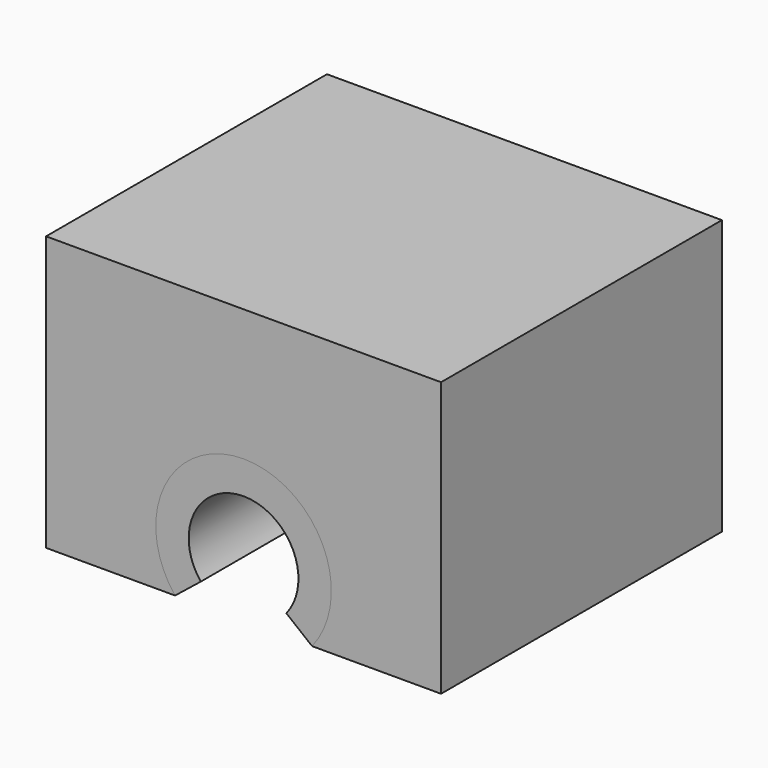
from build123d import *

# Parameters (mm, degrees)
F1_DEPTH = 32
F2_DEPTH = 25


with BuildPart() as f1:
    # F0 (on Front) → F1 (new body)
    with BuildSketch(Plane.XZ):
        with BuildLine():
            ThreePointArc((-6.244998, -5), (0, 8), (6.244998, -5))
            Line((6.244998, -5), (18, -5))
            Line((18, -5), (18, 20))
            Line((18, 20), (0, 20))
            Line((0, 20), (-18, 20))
            Line((-18, 20), (-18, -5))
            Line((-18, -5), (-6.244998, -5))
        make_face()
    extrude(amount=-F1_DEPTH)


with BuildPart() as f2:
    # F0 (on Front) → F2 (new body)
    with BuildSketch(Plane.XZ):
        with BuildLine():
            ThreePointArc((-3.903124, -3.125), (0, 5), (3.903124, -3.125))
            Line((3.903124, -3.125), (6.244998, -5))
            ThreePointArc((6.244998, -5), (0, 8), (-6.244998, -5))
            Line((-6.244998, -5), (-3.903124, -3.125))
        make_face()
    extrude(amount=-F2_DEPTH)


solid = Compound([f1.part, f2.part])
